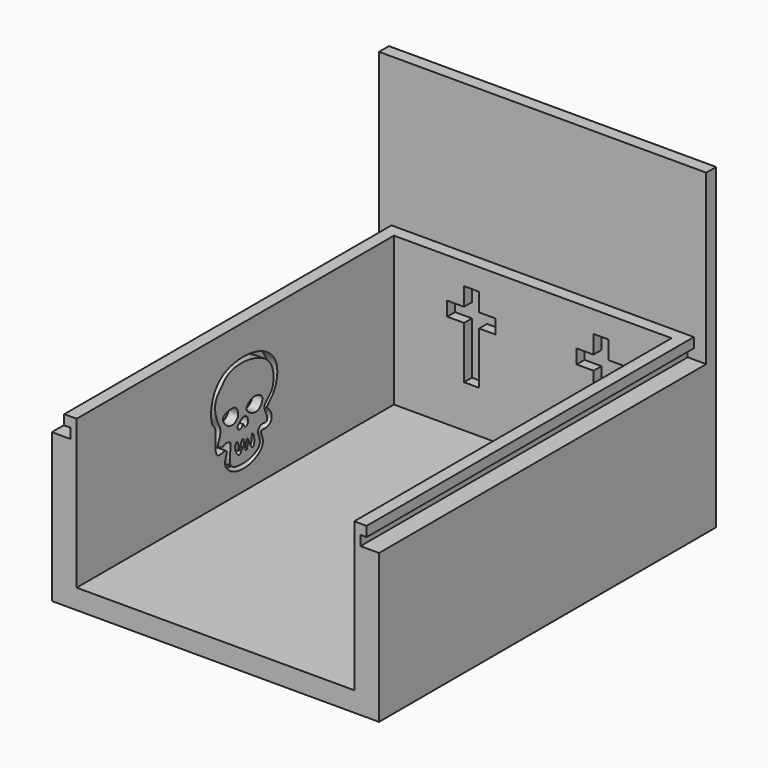
from build123d import *

# Parameters (mm, degrees)
F1_DEPTH  = 45.72
F0_W      = 71.12
F0_H      = 96.52
F2_DEPTH  = 12.7
F3_DEPTH  = 50.8
F4_W      = 4.3229026448
F4_H      = 3.6311953402
F4_W_2    = 4.2554562639
F4_W_3    = 3.8676410913
F4_H_2    = 4.6685643923
F4_H_3    = 13.379054932
F5_DEPTH  = 2.54
F7_DEPTH  = 2.54
F8_W      = 99.695
F8_H      = 2.54
F9_DEPTH  = 1.5748
F10_W     = 99.695
F10_H     = 2.54
F11_DEPTH = 1.5748
F12_W     = 83.82
F12_H     = 102.87
F13_DEPTH = 7.62
F14_W     = 83.82
F14_H     = 3.175
F15_DEPTH = 43.18
F17_DEPTH = 2.54
F19_DEPTH = 5.08


with BuildPart() as f1:
    # F0 (on Top) → F1 (new body)
    with BuildSketch(Plane.XY):
        Polygon((-41.91, -48.26), (-38.735, -48.26), (-38.735, 51.435), (38.735, 51.435), (38.735, -48.26), (41.91, -48.26), (41.91, 54.61), (-41.91, 54.61), align=None)
    extrude(amount=F1_DEPTH)

    # F0 (on Top) → F2 (join)
    with BuildSketch(Plane.XY):
        Rectangle(F0_W, F0_H)
        Polygon((-35.56, -48.26), (-35.56, 48.26), (35.56, 48.26), (35.56, -48.26), (38.735, -48.26), (38.735, 51.435), (-38.735, 51.435), (-38.735, -48.26), align=None)
    extrude(amount=F2_DEPTH)

    # F0 (on Top) → F3 (join)
    with BuildSketch(Plane.XY):
        Polygon((-35.56, -48.26), (-35.56, 48.26), (35.56, 48.26), (35.56, -48.26), (38.735, -48.26), (38.735, 51.435), (-38.735, 51.435), (-38.735, -48.26), align=None)
    extrude(amount=F3_DEPTH)

    # F4 (on face) → F5 (cut)
    with BuildSketch(Plane.XZ.offset(-48.26)):
        with Locations((-19.7627755677, 38.7679003179)):
            Rectangle(F4_W, F4_H)
        Polygon((-17.6013242453, 45.2520623803), (-17.6013242453, 40.583497988), (-13.733683154, 40.583497988), (-13.733683154, 45.2520623803), (-15.7012268901, 45.2520623803), align=None)
        Polygon((-13.733683154, 40.583497988), (-17.6013242453, 40.583497988), (-17.6013242453, 36.9523026478), (-15.7012268901, 36.9523026478), (-13.733683154, 36.9523026478), align=None)
        with Locations((-11.605955022, 38.7679003179)):
            Rectangle(F4_W_2, F4_H)
        Polygon((-15.7012268901, 36.9523026478), (-17.6013242453, 36.9523026478), (-17.6013242453, 23.5732477158), (-13.733683154, 23.5732477158), (-13.733683154, 36.9523026478), align=None)
        with Locations((13.4148907984, 38.7806389481)):
            Rectangle(F4_W, F4_H)
        with Locations((17.5101626664, 42.9305188143)):
            Rectangle(F4_W_3, F4_H_2)
        with Locations((17.5101626664, 38.7806389481)):
            Rectangle(F4_W_3, F4_H)
        with Locations((21.5717113441, 38.7806389481)):
            Rectangle(F4_W_2, F4_H)
        with Locations((17.5101626664, 30.275513812)):
            Rectangle(F4_W_3, F4_H_3)
    extrude(amount=-F5_DEPTH, mode=Mode.SUBTRACT)

    # F6 (on face) → F7 (cut)
    with BuildSketch(Plane.YZ.offset(-35.56)):
        with BuildLine():
            add(Edge.make_bspline(
                [(0.066800043, 17.8515381722), (1.7063485565, 17.8451552315), (4.7171876708, 18.6012374705), (6.999860678, 21.3829871952), (5.276921656, 24.0066631995), (6.2294506871, 24.2412287851), (7.5846093898, 23.9041946533), (9.6952903725, 25.3123269319), (8.5055153707, 27.9548758638), (7.1294995555, 28.5960237749), (9.3997885865, 30.3958659666), (10.790107201, 32.94875052), (11.229867324, 37.1006015122), (8.2471025978, 41.5188778213), (1.0499238935, 43.6785483487), (-6.8088219986, 42.4038417367), (-10.4649246778, 37.3850594005), (-10.393739257, 31.6592808684), (-8.4530306133, 30.5366491672), (-9.2116481295, 26.6111403121), (-8.4945155822, 23.677565438), (-6.4979499072, 24.2380024022), (-4.684053121, 24.2003129976), (-6.4431361111, 21.4069209432), (-4.392275492, 18.6049404983), (-1.534603193, 17.8577726093), (0.066800043, 17.8515381722)],
                knots=[0, 0, 0, 0, 0.0522167145, 0.0942914698, 0.1315032138, 0.1490219417, 0.1774843969, 0.2116779629, 0.2496902535, 0.2739340542, 0.3097969014, 0.3520134992, 0.3993308051, 0.4521990373, 0.5171885095, 0.5833532825, 0.641502224, 0.695721868, 0.7279926109, 0.7748870156, 0.8128881412, 0.8447210686, 0.8704644847, 0.9074559023, 0.948998145, 1, 1, 1, 1], degree=3))
        make_face()
        with BuildLine():
            add(Edge.make_bspline(
                [(-3.4760609269, 41.5970451741), (-5.2974910725, 41.1203397066), (-6.8233973888, 39.1416976805), (-9.6948213947, 36.3535148635), (-8.3447882941, 31.5093846086), (-7.1332419849, 29.9458422684), (-7.4169682252, 27.8437618396), (-8.679903557, 25.9185388708), (-6.4431863727, 25.2115998161), (-5.8879557124, 26.0284017725), (-3.8702243278, 25.5850250458), (-4.1299294456, 24.5156782814), (-4.2606470637, 22.3750439724), (-4.4454739317, 19.4297407896), (0.22524142, 18.7916149005), (4.0527851413, 19.6432805073), (5.966650914, 21.6494876917), (4.1066675382, 24.3913889878), (5.983802769, 25.8270174988), (7.5886697598, 25.1317602112), (7.9124032116, 26.687954122), (5.8487183909, 29.6580214861), (10.2386443688, 31.3142893592), (9.8910902721, 41.080719162), (-0.4692427556, 42.3839908967), (-3.4760609269, 41.5970451741)],
                knots=[0, 0, 0, 0, 0.0546042176, 0.1045733995, 0.1606277824, 0.197388756, 0.2346788711, 0.2701018775, 0.3032357804, 0.3283837236, 0.3618471324, 0.3858027351, 0.4251204008, 0.4658684054, 0.5186180199, 0.5719052759, 0.6106636846, 0.6535745875, 0.6881471751, 0.7189286681, 0.74625248, 0.7905083372, 0.8389617139, 0.909859319, 1, 1, 1, 1], degree=3))
        make_face(mode=Mode.SUBTRACT)
        with BuildLine():
            add(Edge.make_bspline(
                [(-2.959263511, 32.7928691714), (-4.0102771502, 33.054500059), (-8.0445474656, 32.4560348076), (-4.3631489141, 28.2252726219), (-1.3914281493, 29.890298555), (-1.7338960059, 31.7679539146), (-2.2581369115, 32.6183363511), (-2.959263511, 32.7928691714)],
                knots=[0, 0, 0, 0, 0.2397426698, 0.474773943, 0.6803303475, 0.8400687141, 1, 1, 1, 1], degree=3))
        make_face()
        with BuildLine():
            add(Edge.make_bspline(
                [(-0.042931526, 27.9256935774), (-0.1575768292, 27.9431196977), (-0.3668271563, 26.8782469831), (-2.9091211217, 27.5482461522), (0.8953676415, 30.7565784961), (1.9986121629, 27.4264751343), (0.3937760235, 26.6520518961), (0.0840006272, 27.9063998523), (-0.042931526, 27.9256935774)],
                knots=[0, 0, 0, 0, 0.1253351854, 0.281841219, 0.5181013759, 0.7197722097, 0.8612323008, 1, 1, 1, 1], degree=3))
        make_face()
        with BuildLine():
            add(Edge.make_bspline(
                [(1.6418242594, 31.8896352856), (1.2585217685, 31.5387692586), (0.4071301214, 30.4661758946), (4.1004936044, 28.367429827), (6.0655732666, 29.9702940204), (6.3793598774, 32.2709259695), (3.2442620294, 33.0055191193), (2.0968216084, 32.3061290886), (1.6418242594, 31.8896352856)],
                knots=[0, 0, 0, 0, 0.1323027864, 0.3391239984, 0.507780617, 0.6581002152, 0.8429506239, 1, 1, 1, 1], degree=3))
        make_face()
        with BuildLine():
            add(Edge.make_bspline(
                [(-1.8126259092, 24.5991080611), (-1.446247622, 24.2356060148), (-1.5614929735, 20.8728450777), (-0.729641612, 24.3219756106), (0.048747902, 24.7655098307), (0.158767859, 24.0161944644), (0.5262913356, 21.0590442498), (1.1597033165, 25.8165699624), (2.6868551683, 20.5325002786), (2.6295586777, 26.0214623283), (3.8976613764, 22.8801482508), (3.04709718, 20.4548431652), (1.4156329269, 24.3187645805), (1.2313505221, 20.3777516212), (-0.3338639614, 24.0583066096), (-0.9017916205, 20.045745257), (-3.2630714112, 23.7730097502), (-2.0681205896, 24.8525969886), (-1.8126259092, 24.5991080611)],
                knots=[0, 0, 0, 0, 0.0727564404, 0.1402523678, 0.1803068129, 0.2208353018, 0.2818631492, 0.3485825348, 0.4183500641, 0.4911932731, 0.5562990559, 0.6163054747, 0.6848959988, 0.7440075274, 0.8066284617, 0.868979568, 0.949263141, 1, 1, 1, 1], degree=3))
        make_face()
    extrude(amount=-F7_DEPTH, mode=Mode.SUBTRACT)

    # F8 (on face) → F9 (cut)
    with BuildSketch(Plane(origin=(-38.735, 0, 0), x_dir=(0, -1, 0), z_dir=(-1, 0, 0))):
        with Locations((-1.5875, 46.99)):
            Rectangle(F8_W, F8_H)
    extrude(amount=-F9_DEPTH, mode=Mode.SUBTRACT)

    # F10 (on face) → F11 (cut)
    with BuildSketch(Plane.YZ.offset(38.735)):
        with Locations((1.5875, 46.99)):
            Rectangle(F10_W, F10_H)
    extrude(amount=-F11_DEPTH, mode=Mode.SUBTRACT)

    # F12 (on face) → F13 (cut)
    with BuildSketch(Plane(origin=(0, 0, 0), x_dir=(1, 0, 0), z_dir=(0, 0, -1))):
        with Locations((0, -3.175)):
            Rectangle(F12_W, F12_H)
    extrude(amount=-F13_DEPTH, mode=Mode.SUBTRACT)

    # F14 (on face) → F15 (join)
    with BuildSketch(Plane.XY.offset(45.72)):
        with Locations((0, 53.0225)):
            Rectangle(F14_W, F14_H)
    extrude(amount=F15_DEPTH)

    # F16 (on face) → F17 (cut)
    with BuildSketch(Plane(origin=(35.56, 0, 0), x_dir=(0, -1, 0), z_dir=(-1, 0, 0))):
        with BuildLine():
            add(Edge.make_bspline(
                [(0.119172968, 17.2542266542), (1.7765517883, 17.2459806232), (4.8063583808, 18.0993111416), (7.1077599478, 20.7768564873), (5.3853115493, 23.4100296289), (6.3346191966, 23.6461127959), (7.7130587375, 23.2864990221), (9.6948616495, 24.8035769111), (8.6366268257, 27.3738672287), (7.1526328189, 27.9778684974), (9.4265196469, 29.8902850919), (10.9216300129, 32.3266428446), (11.345099995, 36.5207983878), (8.2824263529, 40.9075126189), (1.1710408264, 43.0594426376), (-6.7221624872, 41.9017070368), (-10.35488734, 36.7853035355), (-10.2702410822, 31.0726587985), (-8.4151945149, 29.993547074), (-9.177169698, 26.069770458), (-8.3849909777, 23.0743548979), (-6.3926918209, 23.6404478202), (-4.5760947114, 23.6054451922), (-6.3209960184, 20.8099413583), (-4.3356290803, 18.0998527025), (-1.4908733419, 17.2622371896), (0.119172968, 17.2542266542)],
                knots=[0, 0, 0, 0, 0.0526292248, 0.0943501345, 0.131578605, 0.1491052075, 0.1775804566, 0.2118044749, 0.2492302311, 0.2739147585, 0.3101950119, 0.352233997, 0.3995725719, 0.4526396399, 0.5174230395, 0.5835635007, 0.6419963569, 0.6962403726, 0.7277600078, 0.7746754914, 0.8132923679, 0.8451396041, 0.8708945918, 0.907902637, 0.9488737951, 1, 1, 1, 1], degree=3))
        make_face()
        with BuildLine():
            add(Edge.make_bspline(
                [(-3.4236880019, 41.0645201796), (-5.2451181476, 40.5878147121), (-6.7710244638, 38.6091726861), (-9.6424484697, 35.820989869), (-8.2924153691, 30.9768596141), (-7.0808690599, 29.413317274), (-7.3645953002, 27.3112368452), (-8.627530632, 25.3860138763), (-6.3908134478, 24.6790748216), (-5.8355827874, 25.495876778), (-3.8178514028, 25.0525000513), (-4.0775565206, 23.9831532869), (-4.2082741387, 21.842518978), (-4.3931010067, 18.8972157951), (0.2776143449, 18.259089906), (4.1051580663, 19.1107555128), (6.019023839, 21.1169626972), (4.1590404631, 23.8588639933), (6.036175694, 25.2944925043), (7.6410426848, 24.5992352167), (7.9647761366, 26.1554291276), (5.9010913159, 29.1254964916), (10.2910172938, 30.7817643647), (9.9434631971, 40.5481941675), (-0.4168698307, 41.8514659022), (-3.4236880019, 41.0645201796)],
                knots=[0, 0, 0, 0, 0.0546042176, 0.1045733995, 0.1606277824, 0.197388756, 0.2346788711, 0.2701018775, 0.3032357804, 0.3283837236, 0.3618471324, 0.3858027351, 0.4251204008, 0.4658684054, 0.5186180199, 0.5719052759, 0.6106636846, 0.6535745875, 0.6881471751, 0.7189286681, 0.74625248, 0.7905083372, 0.8389617139, 0.909859319, 1, 1, 1, 1], degree=3))
        make_face(mode=Mode.SUBTRACT)
        with BuildLine():
            add(Edge.make_bspline(
                [(-2.8514962178, 32.1955576533), (-3.8997628037, 32.4576027892), (-7.9095890191, 31.8635662826), (-4.3238326595, 27.6211265825), (-1.2736587011, 29.285716755), (-1.6275664506, 31.1707710315), (-2.1522021654, 32.0207484899), (-2.8514962178, 32.1955576533)],
                knots=[0, 0, 0, 0, 0.2395411215, 0.4731982447, 0.6805990894, 0.8402031661, 1, 1, 1, 1], degree=3))
        make_face()
        with BuildLine():
            add(Edge.make_bspline(
                [(1.6941971844, 31.3571102911), (1.3108946935, 31.0062442641), (0.4595030464, 29.9336509001), (4.1528665294, 27.8349048325), (6.1179461916, 29.437769026), (6.4317328024, 31.738400975), (3.2966349544, 32.4729941248), (2.1491945334, 31.7736040941), (1.6941971844, 31.3571102911)],
                knots=[0, 0, 0, 0, 0.1323027864, 0.3391239984, 0.507780617, 0.6581002152, 0.8429506239, 1, 1, 1, 1], degree=3))
        make_face()
        with BuildLine():
            add(Edge.make_bspline(
                [(-1.704858616, 24.0665830666), (-1.3459018699, 23.71373881), (-1.4600569541, 20.3827078036), (-0.6001683574, 23.7020320346), (0.1589578991, 24.2690617473), (0.2582199718, 23.4139615451), (0.6358723034, 20.594127011), (1.2693680408, 25.1563007956), (2.7994886037, 20.0331032474), (2.7410261459, 25.5182659314), (4.0045725363, 22.2829041159), (3.1565124097, 19.8615546899), (1.5230680738, 23.7203513037), (1.3390104623, 19.7811708857), (-0.2252715344, 23.4590283662), (-0.7975659061, 19.4563502021), (-3.1536947316, 23.1635854097), (-1.9605343092, 24.3179049902), (-1.704858616, 24.0665830666)],
                knots=[0, 0, 0, 0, 0.0726892442, 0.139094474, 0.1803353614, 0.2225736314, 0.2823334942, 0.347943536, 0.4167339268, 0.4895098594, 0.5556241615, 0.6155751597, 0.6841023352, 0.7431592696, 0.8057223687, 0.8680158889, 0.9482253138, 1, 1, 1, 1], degree=3))
        make_face()
        with BuildLine():
            add(Edge.make_bspline(
                [(0.0648357673, 27.3283820593), (-0.049809536, 27.3458081796), (-0.259059863, 26.280935465), (-2.8013538285, 26.9509346341), (1.0031349347, 30.159266978), (2.1063794561, 26.8291636162), (0.5015433167, 26.054740378), (0.1917679205, 27.3090883342), (0.0648357673, 27.3283820593)],
                knots=[0, 0, 0, 0, 0.1253351854, 0.281841219, 0.5181013759, 0.7197722097, 0.8612323008, 1, 1, 1, 1], degree=3))
        make_face()
    extrude(amount=-F17_DEPTH, mode=Mode.SUBTRACT)

    # F18 (on face) → F19 (join)
    with BuildSketch(Plane.XZ.offset(48.26)):
        Polygon((-35.56, 50.8), (-38.735, 50.8), (-38.735, 48.26), (-37.1602, 48.26), (-37.1602, 45.72), (-41.91, 45.72), (-41.91, 7.62), (41.91, 7.62), (41.91, 45.72), (37.1602, 45.72), (37.1602, 48.26), (38.735, 48.26), (38.735, 50.8), (35.56, 50.8), (35.56, 12.7), (-35.56, 12.7), align=None)
    extrude(amount=F19_DEPTH)


solid = f1.part
